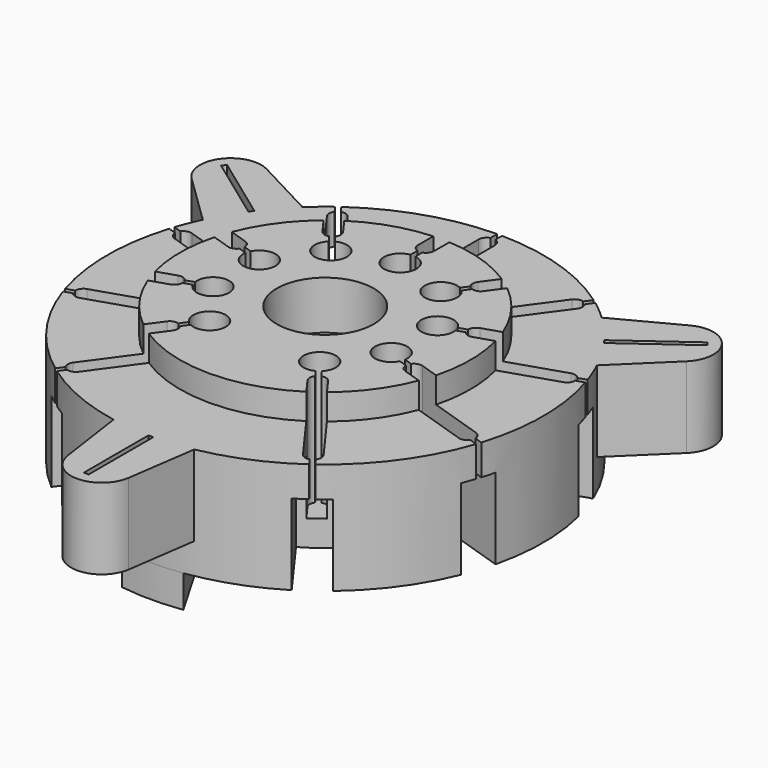
from build123d import *

# Parameters (mm, degrees)
SKETCH_R              = 9
PAD_DEPTH             = 1.6
SKETCH001_R           = 13.5
PAD001_DEPTH          = 6.9
SKETCH002_R           = 3
POCKET_DEPTH          = 3
SKETCH003_R           = 1.75
POCKET001_DEPTH       = 6.901
SKETCH004_R           = 3
POCKET002_DEPTH       = 1.6
SKETCH005_R           = 1
POCKET003_DEPTH       = 6
POCKET004_DEPTH       = 6.9
POLARPATTERN_COUNT    = 5
POLARPATTERN_ANGLE    = 144
POLARPATTERN001_COUNT = 5
POLARPATTERN001_ANGLE = 144
POCKET005_DEPTH       = 5
POLARPATTERN002_COUNT = 5
POLARPATTERN002_ANGLE = 144
POLARPATTERN003_COUNT = 5
POLARPATTERN003_ANGLE = 144
PAD002_DEPTH          = 5
POLARPATTERN004_COUNT = 2
POLARPATTERN004_ANGLE = 126
POLARPATTERN005_COUNT = 2
POLARPATTERN005_ANGLE = 126
SKETCH009_W           = 0.3
SKETCH009_H           = 5
POCKET006_DEPTH       = 99.6849641392
POLARPATTERN006_COUNT = 2
POLARPATTERN006_ANGLE = 126
POLARPATTERN007_COUNT = 2
POLARPATTERN007_ANGLE = 126
PAD003_DEPTH          = 2


with BuildPart() as part:
    # Sketch → Pad (new body)
    with BuildSketch(Plane.XY):
        Circle(SKETCH_R)
    extrude(amount=PAD_DEPTH)

    # Sketch001 (on Face2 of Pad) → Pad001 (join)
    with BuildSketch(Plane(origin=(0, 0, 0), x_dir=(1, 0, 0), z_dir=(0, 0, -1))):
        Circle(SKETCH001_R)
    extrude(amount=PAD001_DEPTH)

    # Sketch002 (on Face5 of Pad001) → Pocket (cut)
    with BuildSketch(Plane.XY.offset(1.6)):
        Circle(SKETCH002_R)
    extrude(amount=-POCKET_DEPTH, mode=Mode.SUBTRACT)

    # Sketch003 → Pocket001 (cut, through all)
    with BuildSketch(Plane.XY):
        Circle(SKETCH003_R)
    extrude(amount=-POCKET001_DEPTH, mode=Mode.SUBTRACT)

    # Sketch004 (on Face3 of Pocket001) → Pocket002 (cut)
    with BuildSketch(Plane(origin=(0, 0, -6.9), x_dir=(1, 0, 0), z_dir=(0, 0, -1))):
        Circle(SKETCH004_R)
    extrude(amount=-POCKET002_DEPTH, mode=Mode.SUBTRACT)

    # Sketch005 (on Face5 of Pad001) → Pocket003 (cut)
    with BuildSketch(Plane.XY.offset(1.6)):
        with Locations((-3.4091544633, -4.6922985674)):
            Circle(SKETCH005_R)
        with Locations((-5.5161277945, -1.7922985674)):
            Circle(SKETCH005_R)
        with Locations((-5.5161277945, 1.7922985674)):
            Circle(SKETCH005_R)
        with Locations((-3.4091544633, 4.6922985674)):
            Circle(SKETCH005_R)
        with Locations((0, 5.8)):
            Circle(SKETCH005_R)
        with Locations((3.4091544633, 4.6922985674)):
            Circle(SKETCH005_R)
        with Locations((5.5161277945, 1.7922985674)):
            Circle(SKETCH005_R)
        with Locations((5.5161277945, -1.7922985674)):
            Circle(SKETCH005_R)
        with Locations((3.4091544633, -4.6922985674)):
            Circle(SKETCH005_R)
    extrude(amount=-POCKET003_DEPTH, mode=Mode.SUBTRACT)

    # Sketch006 (on Face6 of Pocket003) → Pocket004 (cut)
    with BuildSketch(Plane.XY.offset(1.6)):
        with BuildLine():
            ThreePointArc((0.15, 13.4991666409), (0, 13.5), (-0.15, 13.4991666409))
            Line((-0.15, 12.9769696007), (-0.15, 13.4991666409))
            ThreePointArc((-0.15, 12.9769696007), (-0.4031128874, 12.7958039892), (-0.5, 12.5))
            Line((-0.5, 12.5), (-0.5, 7.8))
            ThreePointArc((-0.5, 7.8), (-0.4031128874, 7.5041960108), (-0.15, 7.3230303993))
            Line((-0.15, 6.7886859967), (-0.15, 7.3230303993))
            ThreePointArc((0.15, 6.7886859967), (0, 6.8), (-0.15, 6.7886859967))
            Line((0.15, 6.7886859967), (0.15, 7.3230303993))
            ThreePointArc((0.15, 7.3230303993), (0.4031128874, 7.5041960108), (0.5, 7.8))
            Line((0.5, 12.5), (0.5, 7.8))
            ThreePointArc((0.5, 12.5), (0.4031128874, 12.7958039892), (0.15, 12.9769696007))
            Line((0.15, 12.9769696007), (0.15, 13.4991666409))
        make_face()
    pocket004 = extrude(amount=-POCKET004_DEPTH, mode=Mode.SUBTRACT)

    # PolarPattern: Pocket004 ×5 about axis
    polarpattern_axis = Axis((0, 0, 1.6), (0, 0, 1))
    for i in range(1, POLARPATTERN_COUNT):
        add(pocket004.rotate(polarpattern_axis, i * POLARPATTERN_ANGLE / (POLARPATTERN_COUNT - 1)), mode=Mode.SUBTRACT)

    # PolarPattern001: Pocket004 ×5 about axis
    polarpattern001_axis = Axis((0, 0, 1.6), (0, 0, -1))
    for i in range(1, POLARPATTERN001_COUNT):
        add(pocket004.rotate(polarpattern001_axis, i * POLARPATTERN001_ANGLE / (POLARPATTERN001_COUNT - 1)), mode=Mode.SUBTRACT)

    # Sketch007 (on Face38 of PolarPattern001) → Pocket005 (cut)
    with BuildSketch(Plane(origin=(0, 0, -6.9), x_dir=(1, 0, 0), z_dir=(0, 0, -1))):
        with BuildLine():
            ThreePointArc((-1, -8.94427191), (0, -9), (1, -8.94427191))
            Line((1, -8.94427191), (1, -13.4629120178))
            ThreePointArc((-1, -13.4629120178), (0, -13.5), (1, -13.4629120178))
            Line((-1, -8.94427191), (-1, -13.4629120178))
        make_face()
    pocket005 = extrude(amount=-POCKET005_DEPTH, mode=Mode.SUBTRACT)

    # PolarPattern002: Pocket005 ×5 about axis
    polarpattern002_axis = Axis((0, 0, -6.9), (0, 0, -1))
    for i in range(1, POLARPATTERN002_COUNT):
        add(pocket005.rotate(polarpattern002_axis, i * POLARPATTERN002_ANGLE / (POLARPATTERN002_COUNT - 1)), mode=Mode.SUBTRACT)

    # PolarPattern003: Pocket005 ×5 about axis
    polarpattern003_axis = Axis((0, 0, -6.9), (0, 0, 1))
    for i in range(1, POLARPATTERN003_COUNT):
        add(pocket005.rotate(polarpattern003_axis, i * POLARPATTERN003_ANGLE / (POLARPATTERN003_COUNT - 1)), mode=Mode.SUBTRACT)

    # Sketch008 (on Face74 of PolarPattern003) → Pad002 (join)
    with BuildSketch(Plane.XY):
        with BuildLine():
            ThreePointArc((-1.8806279805, -17.5706259389), (0, -19.2), (1.8806279805, -17.5706259389))
            Line((1.8806279805, -17.5706259389), (2.5, -13.2664991614))
            ThreePointArc((-2.5, -13.2664991614), (0, -13.5), (2.5, -13.2664991614))
            Line((-1.8806279805, -17.5706259389), (-2.5, -13.2664991614))
        make_face()
    pad002 = extrude(amount=-PAD002_DEPTH)

    # PolarPattern004: Pad002 ×2 about axis
    polarpattern004_axis = Axis((0, 0, 0), (0, 0, 1))
    for i in range(1, POLARPATTERN004_COUNT):
        add(pad002.rotate(polarpattern004_axis, i * POLARPATTERN004_ANGLE / (POLARPATTERN004_COUNT - 1)))

    # PolarPattern005: Pad002 ×2 about axis
    polarpattern005_axis = Axis((0, 0, 0), (0, 0, -1))
    for i in range(1, POLARPATTERN005_COUNT):
        add(pad002.rotate(polarpattern005_axis, i * POLARPATTERN005_ANGLE / (POLARPATTERN005_COUNT - 1)))

    # Sketch009 (on Face76 of PolarPattern005) → Pocket006 (cut, through all)
    with BuildSketch(Plane.XY):
        with Locations((0, -16)):
            Rectangle(SKETCH009_W, SKETCH009_H)
    pocket006 = extrude(amount=-POCKET006_DEPTH, mode=Mode.SUBTRACT)

    # PolarPattern006: Pocket006 ×2 about axis
    polarpattern006_axis = Axis((0, 0, 0), (0, 0, 1))
    for i in range(1, POLARPATTERN006_COUNT):
        add(pocket006.rotate(polarpattern006_axis, i * POLARPATTERN006_ANGLE / (POLARPATTERN006_COUNT - 1)), mode=Mode.SUBTRACT)

    # PolarPattern007: Pocket006 ×2 about axis
    polarpattern007_axis = Axis((0, 0, 0), (0, 0, -1))
    for i in range(1, POLARPATTERN007_COUNT):
        add(pocket006.rotate(polarpattern007_axis, i * POLARPATTERN007_ANGLE / (POLARPATTERN007_COUNT - 1)), mode=Mode.SUBTRACT)

    # Sketch010 (on Face1 of PolarPattern007) → Pad003 (join)
    with BuildSketch(Plane(origin=(0, 0, -6.9), x_dir=(1, 0, 0), z_dir=(0, 0, -1))):
        with BuildLine():
            ThreePointArc((1.9, 13.3656275573), (0, 13.5), (-1.9, 13.3656275573))
            Line((0, 10.0747310229), (-1.9, 13.3656275573))
            Line((1.9, 13.3656275573), (0, 10.0747310229))
        make_face()
    extrude(amount=PAD003_DEPTH)


solid = part.part
